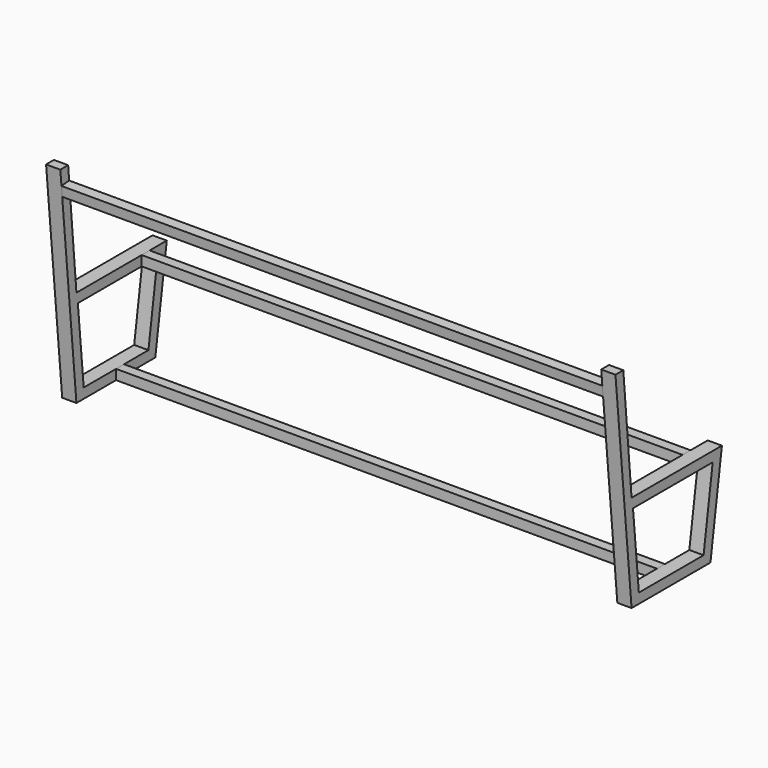
from build123d import *

# Parameters (mm, degrees)
F1_DEPTH = 50
F2_W     = 35
F2_H     = 35
F3_DEPTH = 950
F6_W     = 35
F6_H     = 35
F7_DEPTH = 1900


with BuildPart() as f1:
    # F0 (on Right) → F1 (new body)
    with BuildSketch(Plane.YZ):
        Polygon((66.98719, 750.389036), (32.568913, 750.389036), (103.343673, 0), (449.662176, 0), (500.032689, 341.19256), (103.343673, 341.19256), align=None)
        Polygon((419.449898, 35), (135.197895, 35), (109.619711, 306.19256), (459.486259, 306.19256), align=None, mode=Mode.SUBTRACT)
    extrude(amount=F1_DEPTH)


with BuildPart() as f3:
    # F2 (on face) → F3 (new body)
    with BuildSketch(Plane(origin=(0, 0, 0), x_dir=(0, -1, 0), z_dir=(-1, 0, 0))):
        with Locations((-302.052985, 323.69256)):
            Rectangle(F2_W, F2_H)
        with Locations((-294.823896, 17.5)):
            Rectangle(F2_W, F2_H)
    extrude(amount=F3_DEPTH)


with BuildPart() as f4_1:
    # F4: instance of F1
    add(f1.part.mirror(Plane(origin=(-950, 302.052985, 323.69256), x_dir=(0, -1, 0), z_dir=(-1, 0, 0))))


with BuildPart() as f7:
    # F6 (on face) → F7 (new body, through all)
    with BuildSketch(Plane(origin=(0, 0, 0), x_dir=(0, -1, 0), z_dir=(-1, 0, 0))):
        with Locations((-294.823896, 17.5)):
            Rectangle(F6_W, F6_H)
        Polygon((-37.505505, 698.048839), (-71.370207, 701.057666), (-74.451429, 666.378152), (-40.792029, 663.203484), align=None)
        with Locations((-407.29375, 323.69256)):
            Rectangle(F6_W, F6_H)
    extrude(amount=F7_DEPTH)


solid = Compound([f1.part, f4_1.part, f7.part])
